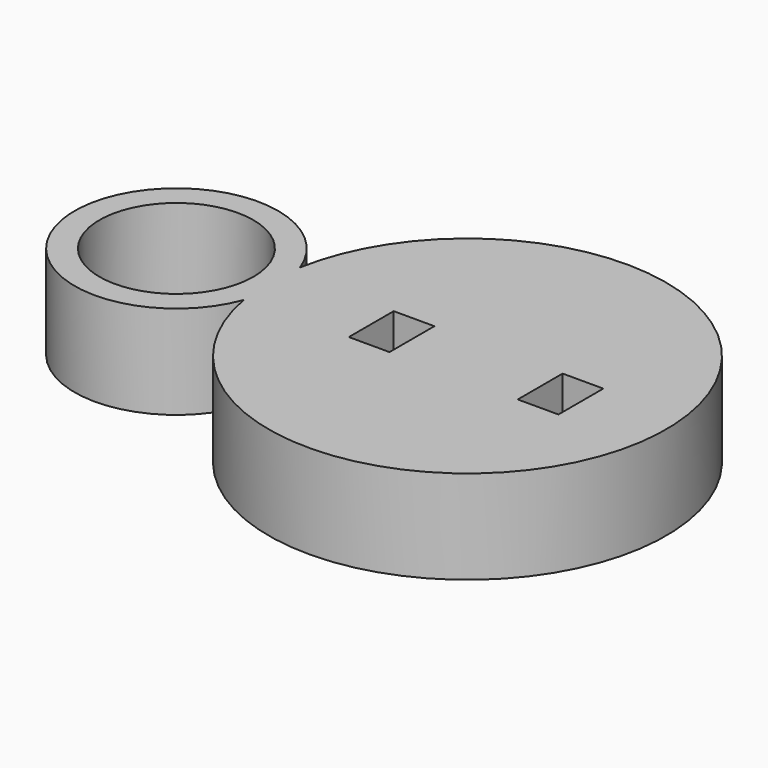
from build123d import *

# Parameters (mm, degrees)
F0_R     = 9.6012
F1_DEPTH = 11.684
F2_W     = 5.08
F2_H     = 7
F3_DEPTH = 25.4


with BuildPart() as f1:
    # F0 (on Top) → F1 (new body)
    with BuildSketch(Plane.XY):
        with BuildLine():
            ThreePointArc((11.914125, -4.398138), (61.122967, 0), (11.914125, 4.398138))
            ThreePointArc((11.914125, 4.398138), (-12.7, 0), (11.914125, -4.398138))
        make_face()
        Circle(F0_R, mode=Mode.SUBTRACT)
    extrude(amount=F1_DEPTH)

    # F2 (on face) → F3 (cut)
    with BuildSketch(Plane(origin=(0, 0, 0), x_dir=(1, 0, 0), z_dir=(0, 0, -1))):
        with Locations((27.342967, 0.609253)):
            Rectangle(F2_W, F2_H)
        with Locations((48.422967, 0.609253)):
            Rectangle(F2_W, F2_H)
    extrude(amount=-F3_DEPTH, mode=Mode.SUBTRACT)


solid = f1.part
